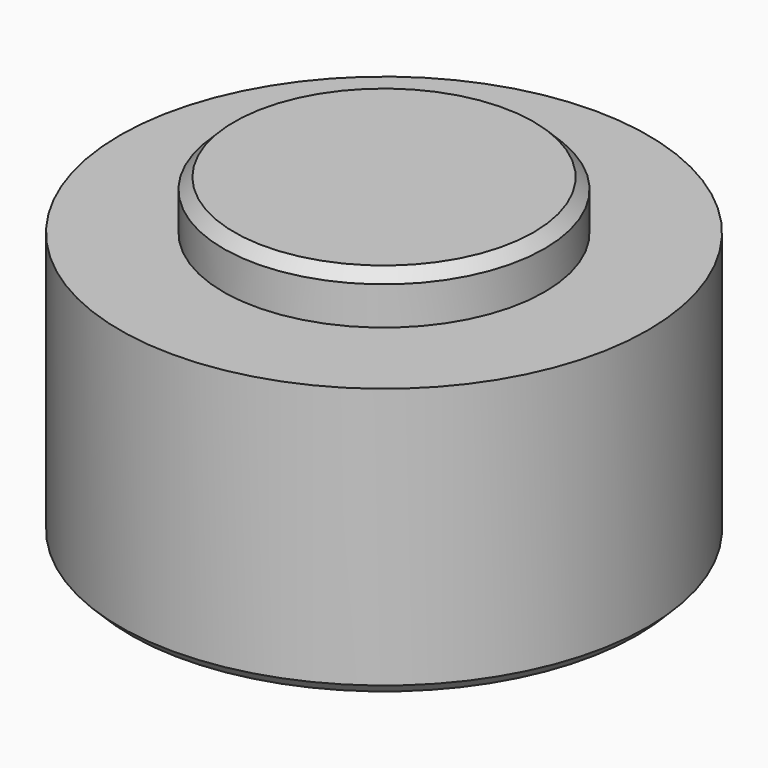
from build123d import *

# Parameters (mm, degrees)
F0_R     = 24.25
F1_DEPTH = 25
F2_R     = 14.75
F3_DEPTH = 4.5
F4_SIZE  = 1


with BuildPart() as f1:
    # F0 (on Top) → F1 (new body)
    with BuildSketch(Plane.XY):
        Circle(F0_R)
    extrude(amount=F1_DEPTH)

    # F2 (on face) → F3 (join)
    with BuildSketch(Plane.XY.offset(25)):
        Circle(F2_R)
    extrude(amount=F3_DEPTH)

    # F4
    f4_edges = [f1.edges().sort_by_distance(p)[0] for p in [
        (-14.75, 0, 29.5),
        (-24.25, 0, 0),
    ]]
    chamfer(f4_edges, length=F4_SIZE)


solid = f1.part
